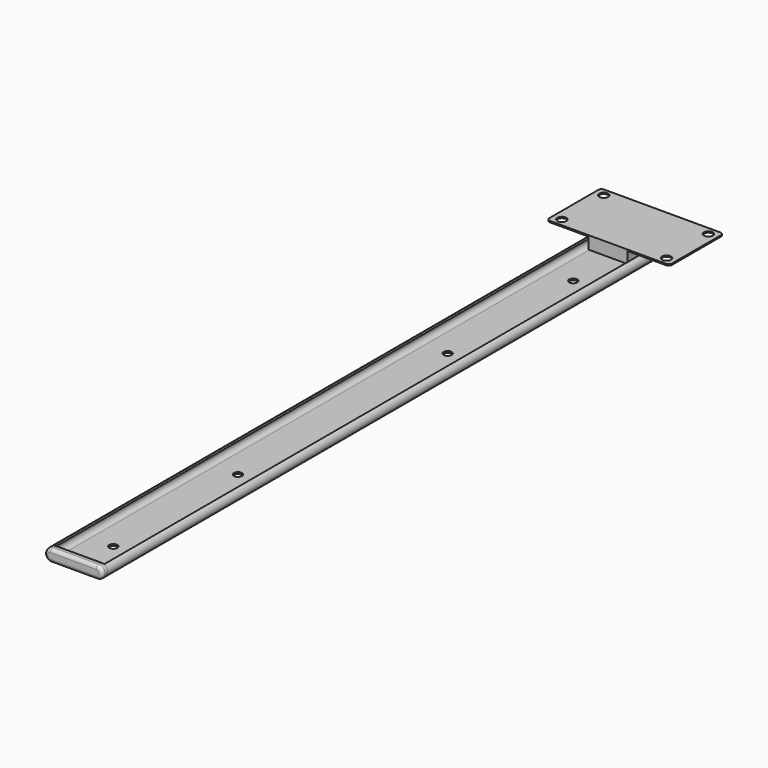
from build123d import *

# Parameters (mm, degrees)
F2_DEPTH  = 41.5
F3_R      = 2
F4_DEPTH  = 446
F7_D      = 5.5
F7_DEPTH  = 7.5
F7_TIP    = 1.6523667023
F8_D      = 5
F8_DEPTH  = 7.5
F8_TIP    = 1.5021515476
F10_DEPTH = 4
F12_R     = 2


with BuildPart() as f2:
    # F1 (on Front) → F2 (new body)
    with BuildSketch(Plane.XZ):
        Polygon((0, 5.749096056), (-37.5, 5.749096056), (-37.5, 4.949096056), (-12, 4.949096056), (-12, -2.050903944), (0, -2.050903944), (12, -2.050903944), (12, 4.949096056), (37.5, 4.949096056), (37.5, 5.749096056), align=None)
    extrude(amount=F2_DEPTH)

    # F3
    f3_edges = [f2.edges().sort_by_distance(p)[0] for p in [
        (37.5, 0, 5.349096),
        (-37.5, 0, 5.349096),
        (-37.5, -41.5, 5.349096),
        (37.5, -41.5, 5.349096),
    ]]
    fillet(f3_edges, radius=F3_R)

    # F7
    with Locations(Plane.XY.offset(5.749096056)):
        with Locations((-32, -4.75), (-32, -36.75), (32, -36.75), (32, -4.75)):
            Hole(F7_D / 2, depth=F7_DEPTH)
            with Locations((0, 0, -(F7_DEPTH + F7_TIP / 2))):  # 118° drill point
                Cone(0, F7_D / 2, F7_TIP, mode=Mode.SUBTRACT)


with BuildPart() as f4:
    # F0 (on Front) → F4 (new body)
    with BuildSketch(Plane.XZ):
        with BuildLine():
            Line((-14, -5.250903944), (0, -5.250903944))
            Line((0, -5.250903944), (14, -5.250903944))
            ThreePointArc((14, -5.250903944), (17.6713815838, -2.2647476886), (15.4956596571, 1.9379188474))
            Line((15.4956596571, 1.9379188474), (15.0968170818, 1.0208994364))
            ThreePointArc((15.0968170818, 1.0208994364), (16.6923464948, -2.0610560234), (14, -4.250903944))
            Line((14, -4.250903944), (-14, -4.250903944))
            ThreePointArc((-14, -4.250903944), (-16.6923464948, -2.0610560234), (-15.0968170818, 1.0208994364))
            Line((-15.0968170818, 1.0208994364), (-15.4956596571, 1.9379188474))
            ThreePointArc((-15.4956596571, 1.9379188474), (-17.6713815838, -2.2647476886), (-14, -5.250903944))
        make_face()
    extrude(amount=F4_DEPTH)

    # F8
    with Locations(Plane(origin=(0, 0, -5.250903944), x_dir=(1, 0, 0), z_dir=(0, 0, -1))):
        with Locations((0, 68), (0, 164), (0, 419.5), (0, 324.25)):
            Hole(F8_D / 2, depth=F8_DEPTH)
            with Locations((0, 0, -(F8_DEPTH + F8_TIP / 2))):  # 118° drill point
                Cone(0, F8_D / 2, F8_TIP, mode=Mode.SUBTRACT)


with BuildPart() as f10:
    # F9 (on Front) → F10 (new body)
    with BuildSketch(Plane.XZ):
        with BuildLine():
            ThreePointArc((-14.0000004321, 2.2452578414), (-17.7476290846, -1.5023708111), (-14.0000004321, -5.2499994636))
            Line((-14.0000004321, -5.2499994636), (13.9999995679, -5.2499994636))
            ThreePointArc((13.9999995679, -5.2499994636), (17.7476282204, -1.5023708111), (13.9999995679, 2.2452578414))
            Line((13.9999995679, 2.2452578414), (-14.0000004321, 2.2452578414))
        make_face()
    extrude(amount=-F10_DEPTH)


with BuildPart() as f10_1:
    # F11: moved
    add(f10.part.moved(Location((0, -450, 0))))

    # F12
    f12_edges = [f10_1.edges().sort_by_distance(p)[0] for p in [
        (-17.747629, -450, -1.502371),
        (0, -450, -5.249999),
        (17.747628, -450, -1.502371),
        (0, -450, 2.245258),
    ]]
    fillet(f12_edges, radius=F12_R)


solid = Compound([f2.part, f4.part, f10_1.part])
